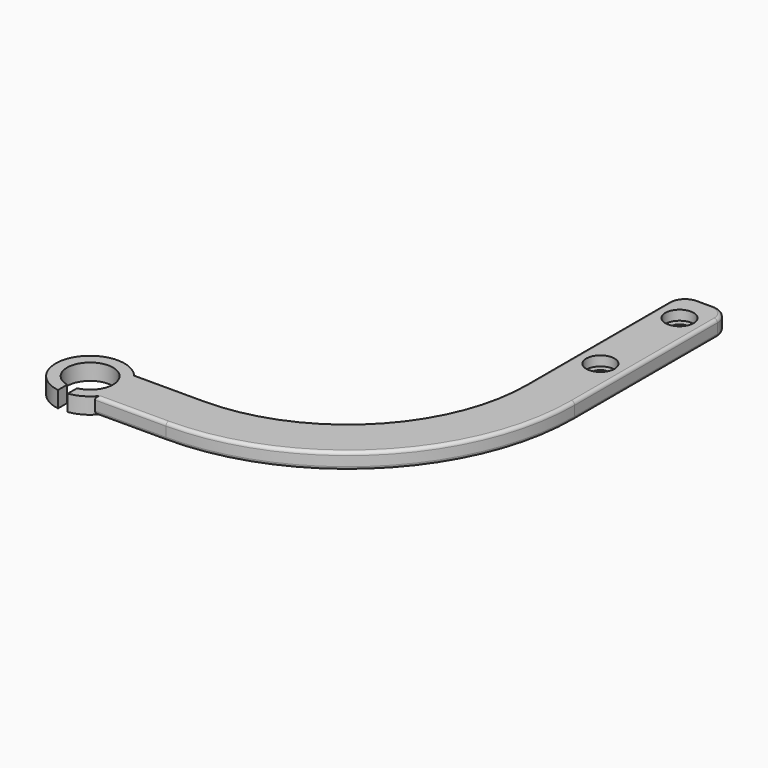
from build123d import *

# Parameters (mm, degrees)
F0_R     = 2.5
F1_DEPTH = 5
F3_R     = 4.35
F4_DEPTH = 3
F5_R     = 5
F6_R     = 5
F7_R     = 1
F8_R     = 1


with BuildPart() as f1:
    # F0 (on Top) → F1 (new body)
    with BuildSketch(Plane.XY):
        with BuildLine():
            Line((0, 130), (-15, 130))
            Line((-15, 130), (-15, 70))
            ThreePointArc((-15, 70), (-31.109127, 31.109127), (-70, 15))
            Line((-70, 15), (-91.909339, 15))
            ThreePointArc((-91.909339, 15), (-108.882194, 12.237932), (-100.9, -2.993331))
            Line((-100.9, -2.993331), (-100.9, 0.560259))
            ThreePointArc((-100.9, 0.560259), (-99.4, 14.6), (-97.9, 0.560259))
            Line((-97.9, 0.560259), (-97.9, -2.993331))
            ThreePointArc((-97.9, -2.993331), (-94.662068, -1.982194), (-91.909339, 0))
            Line((-91.909339, 0), (-70, 0))
            ThreePointArc((-70, 0), (-20.502525, 20.502525), (0, 70))
            Line((0, 70), (0, 130))
        make_face()
        with Locations((-7.5, 89.3)):
            Circle(F0_R, mode=Mode.SUBTRACT)
        with Locations((-7.5, 119.8)):
            Circle(F0_R, mode=Mode.SUBTRACT)
    extrude(amount=F1_DEPTH)

    # F3 (on offset) → F4 (cut, through all)
    with BuildSketch(Plane.XY.offset(2)):
        with Locations((-7.5, 89.3)):
            Circle(F3_R)
        with Locations((-7.5, 119.8)):
            Circle(F3_R)
    extrude(amount=F4_DEPTH, mode=Mode.SUBTRACT)

    # F5
    f5_edges = [f1.edges().sort_by_distance(p)[0] for p in [
        (0, 130, 2.5),
    ]]
    fillet(f5_edges, radius=F5_R)

    # F6
    f6_edges = [f1.edges().sort_by_distance(p)[0] for p in [
        (-15, 130, 2.5),
    ]]
    fillet(f6_edges, radius=F6_R)

    # F7
    f7_edges = [f1.edges().sort_by_distance(p)[0] for p in [
        (0, 97.5, 5),
    ]]
    fillet(f7_edges, radius=F7_R)

    # F8
    f8_edges = [f1.edges().sort_by_distance(p)[0] for p in [
        (0, 97.5, 0),
    ]]
    fillet(f8_edges, radius=F8_R)


solid = f1.part
